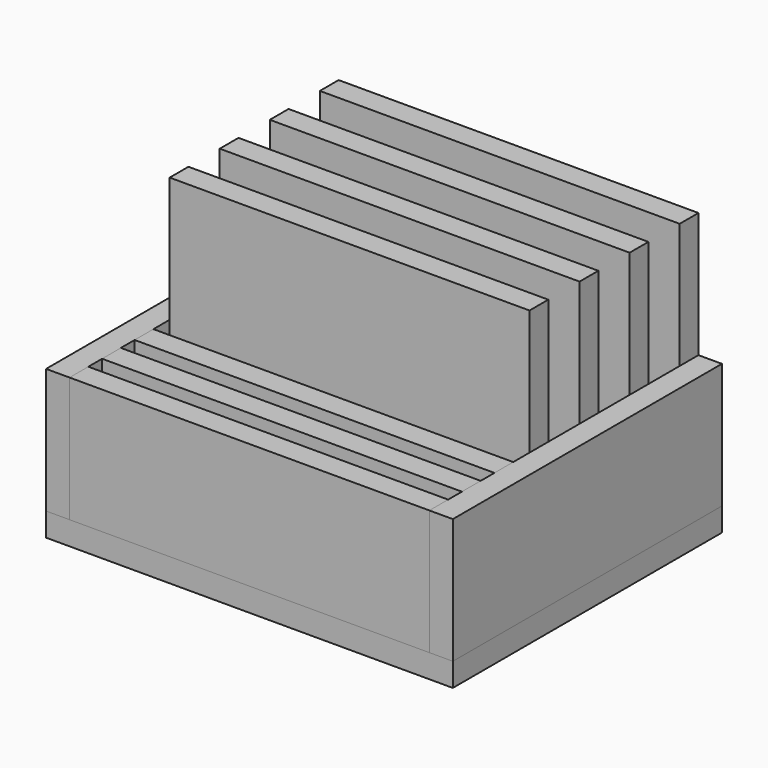
from build123d import *

# Parameters (mm, degrees)
F0_W     = 215
F0_H     = 80
F1_DEPTH = 15
F2_W     = 15
F2_H     = 160
F2_H_2   = 80
F3_DEPTH = 230
F6_W     = 15
F6_H     = 215
F6_W_2   = 245
F7_DEPTH = 15


with BuildPart() as f1:
    # F0 (on Right) → F1 (new body)
    with BuildSketch(Plane.YZ):
        with Locations((-523.31306, -35.294824)):
            Rectangle(F0_W, F0_H)
    extrude(amount=F1_DEPTH)


with BuildPart() as f3:
    # F2 (on face) → F3 (new body)
    with BuildSketch(Plane(origin=(0, 0, 0), x_dir=(0, -1, 0), z_dir=(-1, 0, 0))):
        with Locations((423.31306, 4.705176)):
            Rectangle(F2_W, F2_H)
        with Locations((463.31306, 4.705176)):
            Rectangle(F2_W, F2_H)
        with Locations((503.31306, 4.705176)):
            Rectangle(F2_W, F2_H)
        with Locations((543.31306, 4.705176)):
            Rectangle(F2_W, F2_H)
        with Locations((623.31306, -35.294824)):
            Rectangle(F2_W, F2_H_2)
        with Locations((597.31306, -35.294824)):
            Rectangle(F2_W, F2_H_2)
        with Locations((571.31306, -35.294824)):
            Rectangle(F2_W, F2_H_2)
    extrude(amount=F3_DEPTH)


with BuildPart() as f5_1:
    # F5: instance of F1
    add(f1.part.mirror(Plane.YZ.offset(-115)))


with BuildPart() as f7:
    # F6 (on face) → F7 (new body)
    with BuildSketch(Plane(origin=(0, 0, -75.294824), x_dir=(1, 0, 0), z_dir=(0, 0, -1))):
        with Locations((7.5, 523.31306)):
            Rectangle(F6_W, F6_H)
        with Locations((-122.5, 523.31306)):
            Rectangle(F6_W_2, F6_H)
    extrude(amount=F7_DEPTH)


solid = Compound([f1.part, f3.part, f5_1.part, f7.part])
